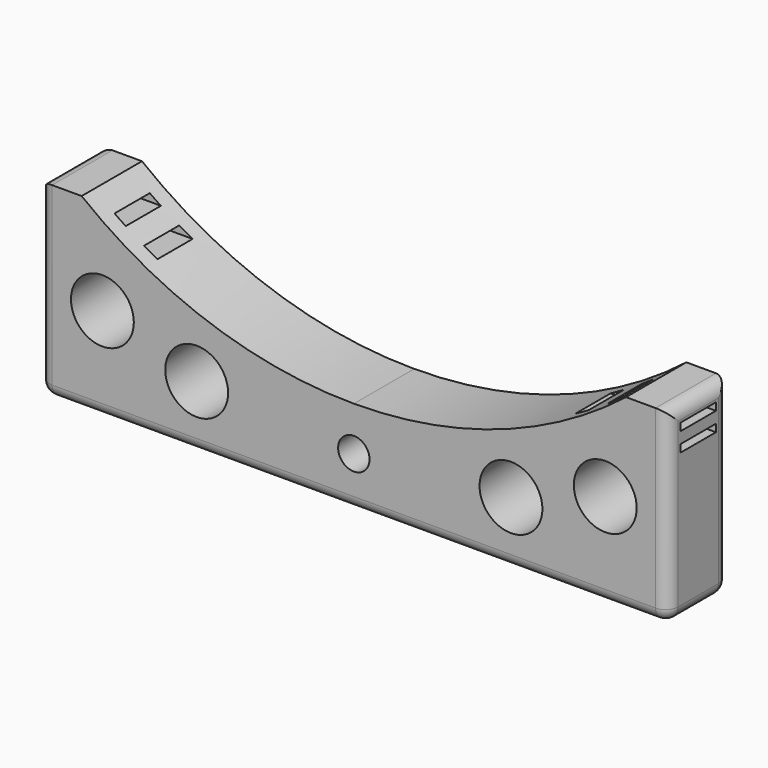
from build123d import *

# Parameters (mm, degrees)
F1_DEPTH = 12
F2_R     = 2
F3_R     = 5
F3_R_2   = 2.5
F4_DEPTH = 12.001
F5_W     = 7
F5_H     = 1.2
F6_DEPTH = 100.001


with BuildPart() as f1:
    # F0 (on Front) → F1 (new body)
    with BuildSketch(Plane.XZ):
        with BuildLine():
            Line((-50, -15), (50, -15))
            Line((50, -15), (50, 15))
            Line((50, 15), (43.30127, 15))
            ThreePointArc((43.30127, 15), (22.912878, 3.856217), (0, 0))
            ThreePointArc((0, 0), (-22.912878, 3.856217), (-43.30127, 15))
            Line((-43.30127, 15), (-50, 15))
            Line((-50, 15), (-50, -15))
        make_face()
    extrude(amount=F1_DEPTH)

    # F2
    f2_edges = [f1.edges().sort_by_distance(p)[0] for p in [
        (0, -12, -15),
        (-50, -12, 0),
        (50, -12, 0),
        (50, 0, 0),
        (0, 0, -15),
        (-50, 0, 0),
        (-50, -6, -15),
        (50, -6, -15),
        (50, -6, 15),
        (-50, -6, 15),
    ]]
    fillet(f2_edges, radius=F2_R)

    # F3 (on face) → F4 (cut, through all)
    with BuildSketch(Plane.XZ.offset(12)):
        with Locations((-25, -5)):
            Circle(F3_R)
        with Locations((-40, 0)):
            Circle(F3_R)
        with Locations((0, -7)):
            Circle(F3_R_2)
        with Locations((25, -5)):
            Circle(F3_R)
        with Locations((40, 0)):
            Circle(F3_R)
    extrude(amount=-F4_DEPTH, mode=Mode.SUBTRACT)

    # F5 (on face) → F6 (cut, through all)
    with BuildSketch(Plane(origin=(-50, 0, 0), x_dir=(0, -1, 0), z_dir=(-1, 0, 0))):
        with Locations((6, 12)):
            Rectangle(F5_W, F5_H)
        with Locations((6, 9)):
            Rectangle(F5_W, F5_H)
    extrude(amount=-F6_DEPTH, mode=Mode.SUBTRACT)


solid = f1.part
